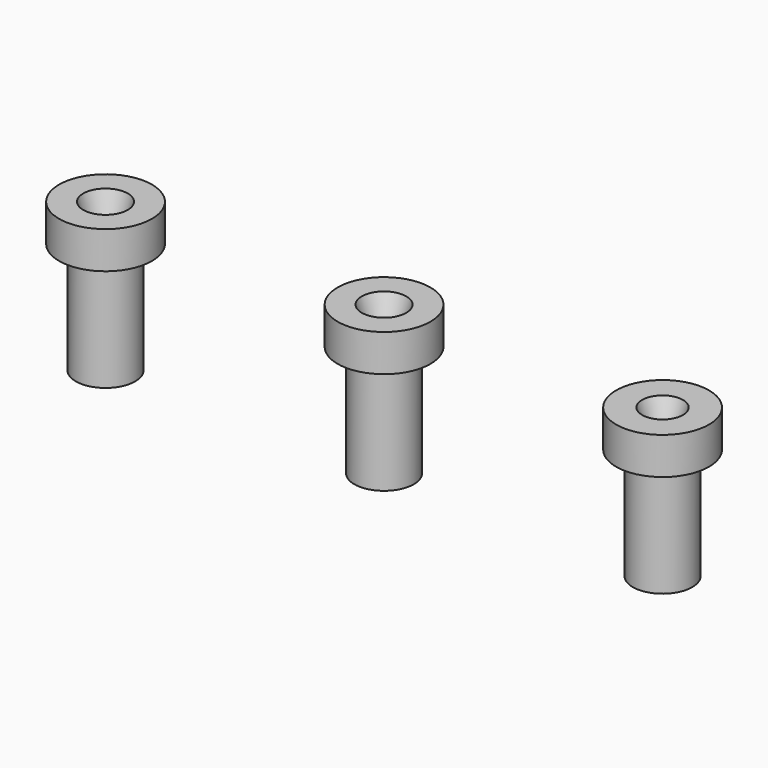
from build123d import *


with BuildPart() as f1:
    # F0 (on Front) → F1 (revolve)
    with BuildSketch(Plane.XZ):
        Polygon((2.5, 0), (8, 0), (8, 30), (12.5, 30), (12.5, 40), (6, 40), (2.5, 30), align=None)
    revolve(axis=Axis((0, 0, 24.445264), (0, 0, 1)))


with BuildPart() as f3:
    # F2 (on Front) → F3 (revolve)
    with BuildSketch(Plane.XZ):
        Polygon((77, 0), (83, 0), (83, 30), (87.5, 30), (87.5, 40), (80.5, 40), (77, 30), align=None)
    revolve(axis=Axis((75, 0, 24.051853), (0, 0, 1)))


with BuildPart() as f5:
    # F4 (on Front) → F5 (revolve)
    with BuildSketch(Plane.XZ):
        Polygon((-72, 0), (-67, 0), (-67, 30), (-62.5, 30), (-62.5, 40), (-69, 40), (-72, 30), align=None)
    revolve(axis=Axis((-75, 0, 24.515344), (0, 0, 1)))


solid = Compound([f1.part, f3.part, f5.part])
